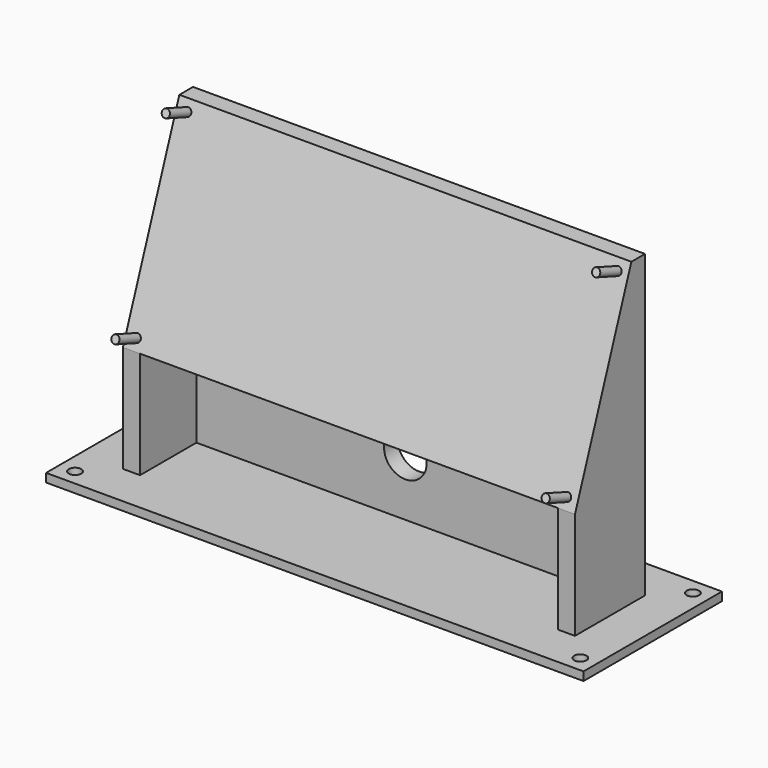
from build123d import *

# Parameters (mm, degrees)
SKETCH001_W     = 188.75
SKETCH001_H     = 60.758838
SKETCH001_R     = 2.182812
PAD_DEPTH       = 3
PAD001_DEPTH    = 105.6
SKETCH004_W     = 328.820023
SKETCH004_H     = 275.658927
POCKET_DEPTH    = 200
SKETCH002_W     = 158.75
SKETCH002_H     = 72.39
PAD002_DEPTH    = 3
SKETCH003_R     = 1.4
PAD003_DEPTH    = 10
SKETCH005_R     = 7.5
POCKET001_DEPTH = 24.440644


with BuildPart() as part:
    # Sketch001 → Pad (new body)
    with BuildSketch(Plane.XY):
        with Locations((0, -5.939775)):
            Rectangle(SKETCH001_W, SKETCH001_H)
        with Locations((88.718146, 18.78279)):
            Circle(SKETCH001_R, mode=Mode.SUBTRACT)
        with Locations((88.718146, -30.66234)):
            Circle(SKETCH001_R, mode=Mode.SUBTRACT)
        with Locations((-88.718146, -30.66234)):
            Circle(SKETCH001_R, mode=Mode.SUBTRACT)
        with Locations((-88.718146, 18.78279)):
            Circle(SKETCH001_R, mode=Mode.SUBTRACT)
    extrude(amount=-PAD_DEPTH)

    # Sketch → Pad001 (join)
    with BuildSketch(Plane.XY):
        Polygon((73.375, -21.319194), (79.375, -21.319194), (79.375, 9.439644), (-79.375, 9.439644), (-79.375, -21.319194), (-73.375, -21.319194), (-73.375, 3.439644), (73.375, 3.439644), align=None)
    extrude(amount=PAD001_DEPTH)

    # Sketch004 (on DatumPlane) → Pocket (cut)
    with BuildSketch(Plane(origin=(0, -35, 0), x_dir=(1, 0, 0), z_dir=(0, -0.939693, 0.34202))):
        with Locations((-2.626228, 137.829464)):
            Rectangle(SKETCH004_W, SKETCH004_H)
    extrude(amount=POCKET_DEPTH, mode=Mode.SUBTRACT)

    # Sketch002 (on DatumPlane) → Pad002 (join)
    with BuildSketch(Plane(origin=(0, -35, 0), x_dir=(1, 0, 0), z_dir=(0, -0.939693, 0.34202))):
        with Locations((0, 76.195)):
            Rectangle(SKETCH002_W, SKETCH002_H)
    extrude(amount=-PAD002_DEPTH)

    # Sketch003 (on DatumPlane) → Pad003 (join)
    with BuildSketch(Plane(origin=(0, -35, 0), x_dir=(1, 0, 0), z_dir=(0, -0.939693, 0.34202))):
        with Locations((-75.565, 108.58)):
            Circle(SKETCH003_R)
        with Locations((75.565, 108.58)):
            Circle(SKETCH003_R)
        with Locations((75.565, 43.81)):
            Circle(SKETCH003_R)
        with Locations((-75.565, 43.81)):
            Circle(SKETCH003_R)
    extrude(amount=PAD003_DEPTH)

    # Sketch005 → Pocket001 (cut, through all)
    with BuildSketch(Plane.XZ):
        with Locations((0, 20)):
            Circle(SKETCH005_R)
    extrude(amount=-POCKET001_DEPTH, mode=Mode.SUBTRACT)


solid = part.part
